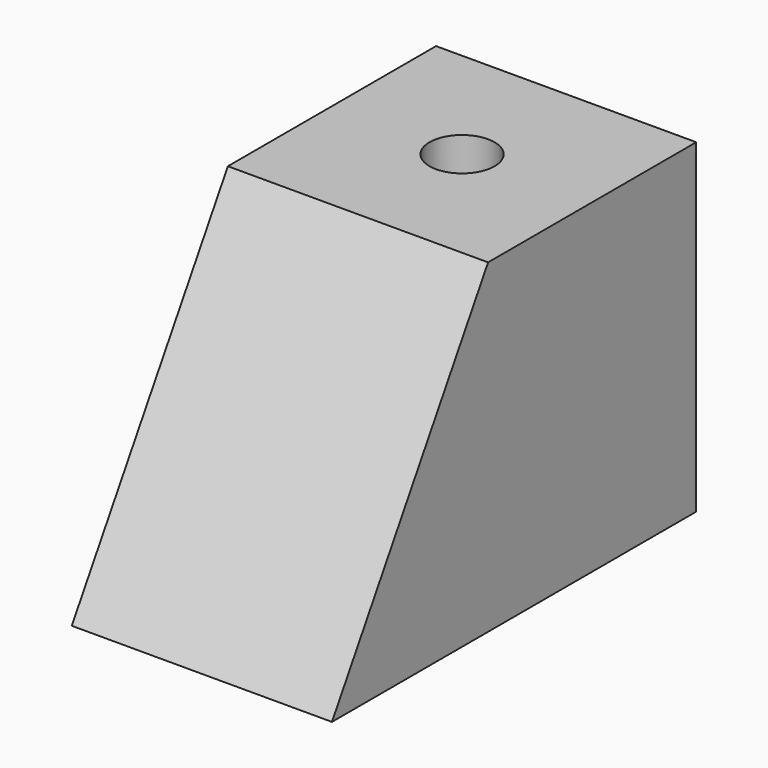
from build123d import *

# Parameters (mm, degrees)
F1_DEPTH = 25.4
F3_D     = 6.35


with BuildPart() as f1:
    # F0 (on Right) → F1 (new body)
    with BuildSketch(Plane.YZ):
        Polygon((-44.45, 0), (0, 0), (0, 31.75), (-25.4, 31.75), align=None)
    extrude(amount=F1_DEPTH)

    # F3 (through all)
    with Locations(Plane.XY.offset(31.75)):
        with Locations((12.7, -12.7)):
            Hole(F3_D / 2)


solid = f1.part
